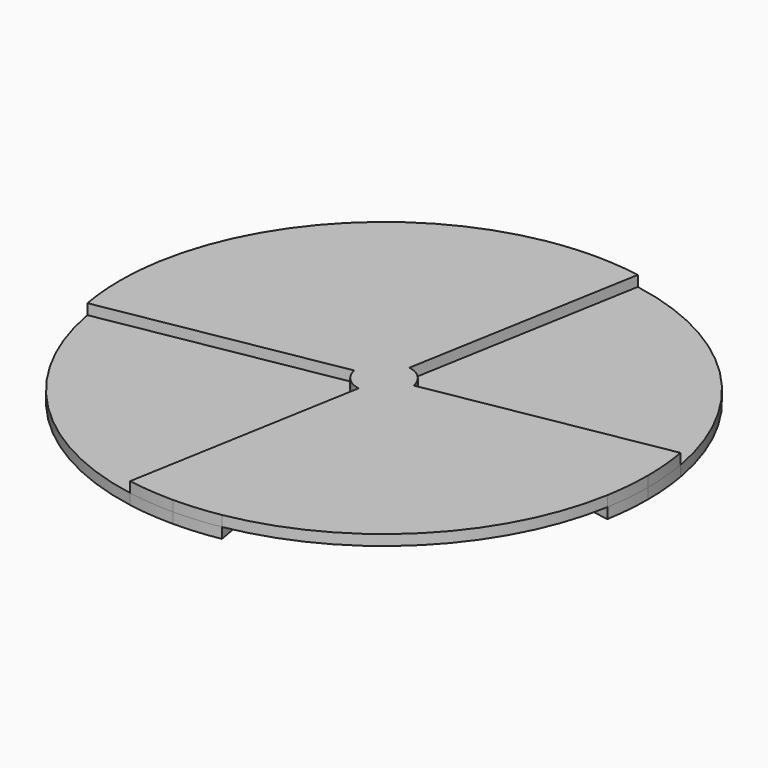
from build123d import *

# Parameters (mm, degrees)
F1_DEPTH = 2
F2_DEPTH = 2


with BuildPart() as f1:
    # F0 (on Top) → F1 (new body)
    with BuildSketch(Plane.XY):
        with BuildLine():
            Line((-50, 0), (-5, 0))
            ThreePointArc((-5, 0), (-4.9809734905, 0.4357787137), (-4.9240387651, 0.8682408883))
            Line((-4.9240387651, 0.8682408883), (-49.2403876506, 8.6824088833))
            ThreePointArc((-49.2403876506, 8.6824088833), (-49.8097349046, 4.3577871374), (-50, 0))
        make_face()
        with BuildLine():
            ThreePointArc((-4.9240387651, 0.8682408883), (-3.5355339059, 3.5355339059), (-0.8682408883, 4.9240387651))
            Line((-0.8682408883, 4.9240387651), (-8.6824088833, 49.2403876506))
            ThreePointArc((-8.6824088833, 49.2403876506), (-35.3553390593, 35.3553390593), (-49.2403876506, 8.6824088833))
            Line((-49.2403876506, 8.6824088833), (-4.9240387651, 0.8682408883))
        make_face()
        with BuildLine():
            Line((0, 5), (0, 50))
            ThreePointArc((0, 50), (-4.3577871374, 49.8097349046), (-8.6824088833, 49.2403876506))
            Line((-8.6824088833, 49.2403876506), (-0.8682408883, 4.9240387651))
            ThreePointArc((-0.8682408883, 4.9240387651), (-0.4357787137, 4.9809734905), (0, 5))
        make_face()
        with BuildLine():
            Line((0.8682408883, 4.9240387651), (8.6824088833, 49.2403876506))
            ThreePointArc((8.6824088833, 49.2403876506), (4.3577871374, 49.8097349046), (0, 50))
            Line((0, 50), (0, 5))
            ThreePointArc((0, 5), (0.4357787137, 4.9809734905), (0.8682408883, 4.9240387651))
        make_face()
        with BuildLine():
            Line((-49.2403876506, -8.6824088833), (-4.9240387651, -0.8682408883))
            ThreePointArc((-4.9240387651, -0.8682408883), (-4.9809734905, -0.4357787137), (-5, 0))
            Line((-5, 0), (-50, 0))
            ThreePointArc((-50, 0), (-49.8097349046, -4.3577871374), (-49.2403876506, -8.6824088833))
        make_face()
        with BuildLine():
            Line((5, 0), (50, 0))
            ThreePointArc((50, 0), (49.8097349046, 4.3577871374), (49.2403876506, 8.6824088833))
            Line((49.2403876506, 8.6824088833), (4.9240387651, 0.8682408883))
            ThreePointArc((4.9240387651, 0.8682408883), (4.9809734905, 0.4357787137), (5, 0))
        make_face()
        with BuildLine():
            ThreePointArc((49.2403876506, -8.6824088833), (49.8097349046, -4.3577871374), (50, 0))
            Line((50, 0), (5, 0))
            ThreePointArc((5, 0), (4.9809734905, -0.4357787137), (4.9240387651, -0.8682408883))
            Line((4.9240387651, -0.8682408883), (49.2403876506, -8.6824088833))
        make_face()
        with BuildLine():
            ThreePointArc((8.6824088833, -49.2403876506), (35.3553390593, -35.3553390593), (49.2403876506, -8.6824088833))
            Line((49.2403876506, -8.6824088833), (4.9240387651, -0.8682408883))
            ThreePointArc((4.9240387651, -0.8682408883), (3.5355339059, -3.5355339059), (0.8682408883, -4.9240387651))
            Line((0.8682408883, -4.9240387651), (8.6824088833, -49.2403876506))
        make_face()
        with BuildLine():
            ThreePointArc((0, -50), (4.3577871374, -49.8097349046), (8.6824088833, -49.2403876506))
            Line((8.6824088833, -49.2403876506), (0.8682408883, -4.9240387651))
            ThreePointArc((0.8682408883, -4.9240387651), (0.4357787137, -4.9809734905), (0, -5))
            Line((0, -5), (0, -50))
        make_face()
        with BuildLine():
            ThreePointArc((-8.6824088833, -49.2403876506), (-4.3577871374, -49.8097349046), (0, -50))
            Line((0, -50), (0, -5))
            ThreePointArc((0, -5), (-0.4357787137, -4.9809734905), (-0.8682408883, -4.9240387651))
            Line((-0.8682408883, -4.9240387651), (-8.6824088833, -49.2403876506))
        make_face()
        with BuildLine():
            Line((-4.9240387651, -0.8682408883), (0, 0))
            Line((0, 0), (-5, 0))
            ThreePointArc((-5, 0), (-4.9809734905, -0.4357787137), (-4.9240387651, -0.8682408883))
        make_face()
        with BuildLine():
            Line((-5, 0), (0, 0))
            Line((0, 0), (-4.9240387651, 0.8682408883))
            ThreePointArc((-4.9240387651, 0.8682408883), (-4.9809734905, 0.4357787137), (-5, 0))
        make_face()
        with BuildLine():
            Line((-4.9240387651, 0.8682408883), (0, 0))
            Line((0, 0), (-0.8682408883, 4.9240387651))
            ThreePointArc((-0.8682408883, 4.9240387651), (-3.5355339059, 3.5355339059), (-4.9240387651, 0.8682408883))
        make_face()
        with BuildLine():
            Line((-0.8682408883, 4.9240387651), (0, 0))
            Line((0, 0), (0, 5))
            ThreePointArc((0, 5), (-0.4357787137, 4.9809734905), (-0.8682408883, 4.9240387651))
        make_face()
        with BuildLine():
            Line((0, 5), (0, 0))
            Line((0, 0), (0.8682408883, 4.9240387651))
            ThreePointArc((0.8682408883, 4.9240387651), (0.4357787137, 4.9809734905), (0, 5))
        make_face()
        with BuildLine():
            Line((0, 0), (4.9240387651, 0.8682408883))
            ThreePointArc((4.9240387651, 0.8682408883), (3.5355339059, 3.5355339059), (0.8682408883, 4.9240387651))
            Line((0.8682408883, 4.9240387651), (0, 0))
        make_face()
        with BuildLine():
            Line((0, 0), (5, 0))
            ThreePointArc((5, 0), (4.9809734905, 0.4357787137), (4.9240387651, 0.8682408883))
            Line((4.9240387651, 0.8682408883), (0, 0))
        make_face()
        with BuildLine():
            ThreePointArc((4.9240387651, -0.8682408883), (4.9809734905, -0.4357787137), (5, 0))
            Line((5, 0), (0, 0))
            Line((0, 0), (4.9240387651, -0.8682408883))
        make_face()
        with BuildLine():
            ThreePointArc((0.8682408883, -4.9240387651), (3.5355339059, -3.5355339059), (4.9240387651, -0.8682408883))
            Line((4.9240387651, -0.8682408883), (0, 0))
            Line((0, 0), (0.8682408883, -4.9240387651))
        make_face()
        with BuildLine():
            Line((0.8682408883, -4.9240387651), (0, 0))
            Line((0, 0), (0, -5))
            ThreePointArc((0, -5), (0.4357787137, -4.9809734905), (0.8682408883, -4.9240387651))
        make_face()
        with BuildLine():
            Line((0, -5), (0, 0))
            Line((0, 0), (-0.8682408883, -4.9240387651))
            ThreePointArc((-0.8682408883, -4.9240387651), (-0.4357787137, -4.9809734905), (0, -5))
        make_face()
        with BuildLine():
            Line((-0.8682408883, -4.9240387651), (0, 0))
            Line((0, 0), (-4.9240387651, -0.8682408883))
            ThreePointArc((-4.9240387651, -0.8682408883), (-3.5355339059, -3.5355339059), (-0.8682408883, -4.9240387651))
        make_face()
    extrude(amount=F1_DEPTH)


with BuildPart() as f2:
    # F0 (on Top) → F2 (new body)
    with BuildSketch(Plane.XY):
        with BuildLine():
            Line((0.8682408883, 4.9240387651), (8.6824088833, 49.2403876506))
            ThreePointArc((8.6824088833, 49.2403876506), (4.3577871374, 49.8097349046), (0, 50))
            Line((0, 50), (0, 5))
            ThreePointArc((0, 5), (0.4357787137, 4.9809734905), (0.8682408883, 4.9240387651))
        make_face()
        with BuildLine():
            Line((0, 5), (0, 50))
            ThreePointArc((0, 50), (-4.3577871374, 49.8097349046), (-8.6824088833, 49.2403876506))
            Line((-8.6824088833, 49.2403876506), (-0.8682408883, 4.9240387651))
            ThreePointArc((-0.8682408883, 4.9240387651), (-0.4357787137, 4.9809734905), (0, 5))
        make_face()
        with BuildLine():
            Line((4.9240387651, 0.8682408883), (49.2403876506, 8.6824088833))
            ThreePointArc((49.2403876506, 8.6824088833), (35.3553390593, 35.3553390593), (8.6824088833, 49.2403876506))
            Line((8.6824088833, 49.2403876506), (0.8682408883, 4.9240387651))
            ThreePointArc((0.8682408883, 4.9240387651), (3.5355339059, 3.5355339059), (4.9240387651, 0.8682408883))
        make_face()
        with BuildLine():
            Line((5, 0), (50, 0))
            ThreePointArc((50, 0), (49.8097349046, 4.3577871374), (49.2403876506, 8.6824088833))
            Line((49.2403876506, 8.6824088833), (4.9240387651, 0.8682408883))
            ThreePointArc((4.9240387651, 0.8682408883), (4.9809734905, 0.4357787137), (5, 0))
        make_face()
        with BuildLine():
            ThreePointArc((49.2403876506, -8.6824088833), (49.8097349046, -4.3577871374), (50, 0))
            Line((50, 0), (5, 0))
            ThreePointArc((5, 0), (4.9809734905, -0.4357787137), (4.9240387651, -0.8682408883))
            Line((4.9240387651, -0.8682408883), (49.2403876506, -8.6824088833))
        make_face()
        with BuildLine():
            Line((-50, 0), (-5, 0))
            ThreePointArc((-5, 0), (-4.9809734905, 0.4357787137), (-4.9240387651, 0.8682408883))
            Line((-4.9240387651, 0.8682408883), (-49.2403876506, 8.6824088833))
            ThreePointArc((-49.2403876506, 8.6824088833), (-49.8097349046, 4.3577871374), (-50, 0))
        make_face()
        with BuildLine():
            Line((-49.2403876506, -8.6824088833), (-4.9240387651, -0.8682408883))
            ThreePointArc((-4.9240387651, -0.8682408883), (-4.9809734905, -0.4357787137), (-5, 0))
            Line((-5, 0), (-50, 0))
            ThreePointArc((-50, 0), (-49.8097349046, -4.3577871374), (-49.2403876506, -8.6824088833))
        make_face()
        with BuildLine():
            ThreePointArc((-0.8682408883, -4.9240387651), (-3.5355339059, -3.5355339059), (-4.9240387651, -0.8682408883))
            Line((-4.9240387651, -0.8682408883), (-49.2403876506, -8.6824088833))
            ThreePointArc((-49.2403876506, -8.6824088833), (-35.3553390593, -35.3553390593), (-8.6824088833, -49.2403876506))
            Line((-8.6824088833, -49.2403876506), (-0.8682408883, -4.9240387651))
        make_face()
        with BuildLine():
            ThreePointArc((-8.6824088833, -49.2403876506), (-4.3577871374, -49.8097349046), (0, -50))
            Line((0, -50), (0, -5))
            ThreePointArc((0, -5), (-0.4357787137, -4.9809734905), (-0.8682408883, -4.9240387651))
            Line((-0.8682408883, -4.9240387651), (-8.6824088833, -49.2403876506))
        make_face()
        with BuildLine():
            ThreePointArc((0, -50), (4.3577871374, -49.8097349046), (8.6824088833, -49.2403876506))
            Line((8.6824088833, -49.2403876506), (0.8682408883, -4.9240387651))
            ThreePointArc((0.8682408883, -4.9240387651), (0.4357787137, -4.9809734905), (0, -5))
            Line((0, -5), (0, -50))
        make_face()
        with BuildLine():
            Line((0, 0), (4.9240387651, 0.8682408883))
            ThreePointArc((4.9240387651, 0.8682408883), (3.5355339059, 3.5355339059), (0.8682408883, 4.9240387651))
            Line((0.8682408883, 4.9240387651), (0, 0))
        make_face()
        with BuildLine():
            Line((0, 5), (0, 0))
            Line((0, 0), (0.8682408883, 4.9240387651))
            ThreePointArc((0.8682408883, 4.9240387651), (0.4357787137, 4.9809734905), (0, 5))
        make_face()
        with BuildLine():
            Line((-0.8682408883, 4.9240387651), (0, 0))
            Line((0, 0), (0, 5))
            ThreePointArc((0, 5), (-0.4357787137, 4.9809734905), (-0.8682408883, 4.9240387651))
        make_face()
        with BuildLine():
            Line((-4.9240387651, 0.8682408883), (0, 0))
            Line((0, 0), (-0.8682408883, 4.9240387651))
            ThreePointArc((-0.8682408883, 4.9240387651), (-3.5355339059, 3.5355339059), (-4.9240387651, 0.8682408883))
        make_face()
        with BuildLine():
            Line((-5, 0), (0, 0))
            Line((0, 0), (-4.9240387651, 0.8682408883))
            ThreePointArc((-4.9240387651, 0.8682408883), (-4.9809734905, 0.4357787137), (-5, 0))
        make_face()
        with BuildLine():
            Line((-4.9240387651, -0.8682408883), (0, 0))
            Line((0, 0), (-5, 0))
            ThreePointArc((-5, 0), (-4.9809734905, -0.4357787137), (-4.9240387651, -0.8682408883))
        make_face()
        with BuildLine():
            Line((-0.8682408883, -4.9240387651), (0, 0))
            Line((0, 0), (-4.9240387651, -0.8682408883))
            ThreePointArc((-4.9240387651, -0.8682408883), (-3.5355339059, -3.5355339059), (-0.8682408883, -4.9240387651))
        make_face()
        with BuildLine():
            Line((0, -5), (0, 0))
            Line((0, 0), (-0.8682408883, -4.9240387651))
            ThreePointArc((-0.8682408883, -4.9240387651), (-0.4357787137, -4.9809734905), (0, -5))
        make_face()
        with BuildLine():
            Line((0.8682408883, -4.9240387651), (0, 0))
            Line((0, 0), (0, -5))
            ThreePointArc((0, -5), (0.4357787137, -4.9809734905), (0.8682408883, -4.9240387651))
        make_face()
        with BuildLine():
            ThreePointArc((0.8682408883, -4.9240387651), (3.5355339059, -3.5355339059), (4.9240387651, -0.8682408883))
            Line((4.9240387651, -0.8682408883), (0, 0))
            Line((0, 0), (0.8682408883, -4.9240387651))
        make_face()
        with BuildLine():
            Line((0, 0), (5, 0))
            ThreePointArc((5, 0), (4.9809734905, 0.4357787137), (4.9240387651, 0.8682408883))
            Line((4.9240387651, 0.8682408883), (0, 0))
        make_face()
        with BuildLine():
            ThreePointArc((4.9240387651, -0.8682408883), (4.9809734905, -0.4357787137), (5, 0))
            Line((5, 0), (0, 0))
            Line((0, 0), (4.9240387651, -0.8682408883))
        make_face()
    extrude(amount=-F2_DEPTH)


solid = Compound([f1.part, f2.part])
